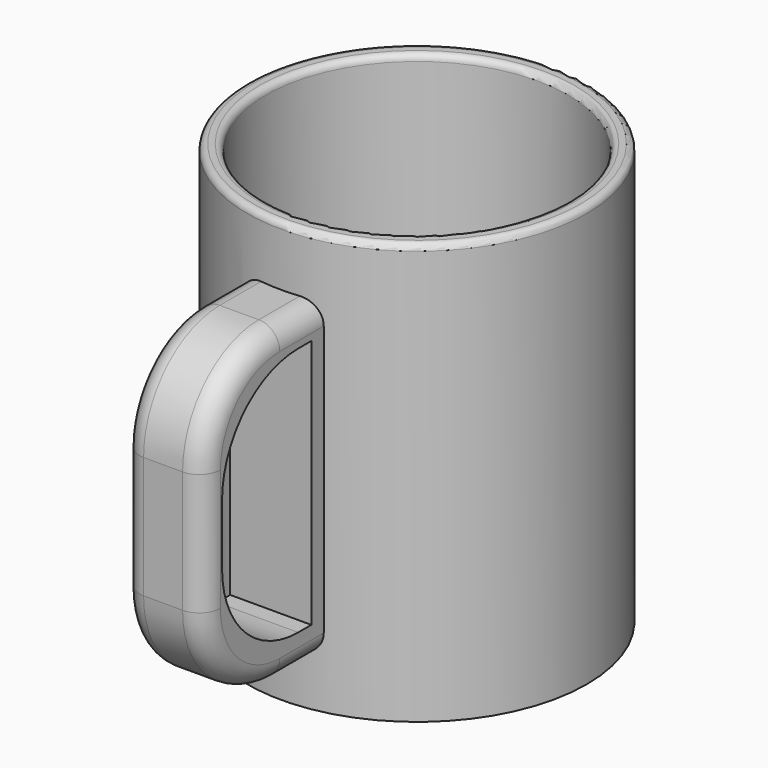
from build123d import *

# Parameters (mm, degrees)
F0_R     = 41.0268992287
F1_DEPTH = 101.6
F2_R     = 36.535273012
F3_DEPTH = 97.79
F4_R     = 1.5330256121
F6_W     = 19.5752624422
F6_H     = 75.4010118544
F8_W     = 26.9523151219
F8_H     = 60.3598859161
F9_DEPTH = 51.1780356548
F10_R    = 22.9953841816
F11_R    = 5.08
F12_R    = 5.08


with BuildPart() as f1:
    # F0 (on Top) → F1 (new body)
    with BuildSketch(Plane.XY):
        Circle(F0_R)
    extrude(amount=F1_DEPTH)

    # F2 (on face) → F3 (cut)
    with BuildSketch(Plane.XY.offset(101.6)):
        Circle(F2_R)
    extrude(amount=-F3_DEPTH, mode=Mode.SUBTRACT)

    # F4
    f4_edges = [f1.edges().sort_by_distance(p)[0] for p in [
        (-36.535273, 0, 101.6),
        (-41.026899, 0, 101.6),
    ]]
    fillet(f4_edges, radius=F4_R)

    # F6 (on offset) → F7 (join, up to the next surface of F1)
    with BuildSketch(Plane.XZ.offset(76.2)):
        with Locations((-0.362505205, 49.4942422956)):
            Rectangle(F6_W, F6_H)
    extrude(until=Until.NEXT, dir=(0, 1, 0))

    # F8 (on face) → F9 (cut, through all)
    with BuildSketch(Plane(origin=(-10.1501364261, 0, 0), x_dir=(0, -1, 0), z_dir=(-1, 0, 0))):
        with Locations((57.1689289063, 50.295223482)):
            Rectangle(F8_W, F8_H)
    extrude(amount=-F9_DEPTH, mode=Mode.SUBTRACT)

    # F10
    f10_edges = [f1.edges().sort_by_distance(p)[0] for p in [
        (-0.362505, -76.2, 87.194748),
        (-0.362505, -76.2, 11.793736),
        (-0.362505, -70.645086, 20.115281),
        (-0.362505, -70.645086, 80.475166),
    ]]
    fillet(f10_edges, radius=F10_R)

    # F11
    f11_edges = [f1.edges().sort_by_distance(p)[0] for p in [
        (-10.150136, -69.464808, 80.459556),
    ]]
    fillet(f11_edges, radius=F11_R)

    # F12
    f12_edges = [f1.edges().sort_by_distance(p)[0] for p in [
        (9.425126, -69.464808, 80.459556),
    ]]
    fillet(f12_edges, radius=F12_R)


solid = f1.part
